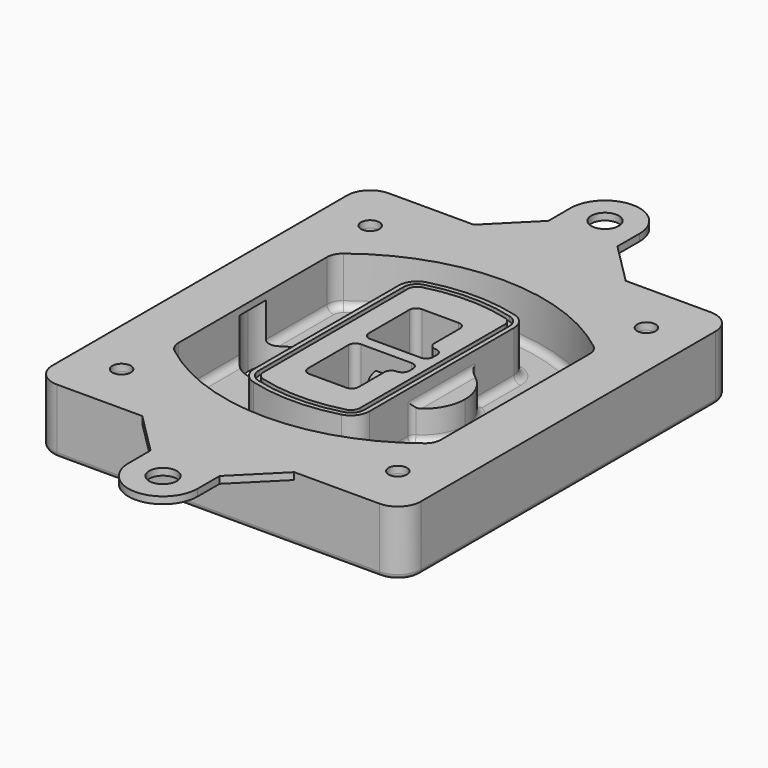
from build123d import *

# Parameters (mm, degrees)
F0_R      = 4
F1_DEPTH  = 25
F2_DEPTH  = 3
F3_DEPTH  = 18
F5_DEPTH  = 21
F6_DEPTH  = 2
F8_DEPTH  = 20
F9_DEPTH  = 16
F10_DEPTH = 25
F7_R      = 6
F7_R_2    = 4
F11_DEPTH = 6
F13_DEPTH = 9
F14_R     = 3
F15_R     = 2
F16_R     = 4
F16_R_2   = 6
F17_DEPTH = 3


with BuildPart() as f1:
    # F0 (on Top) → F1 (new body)
    with BuildSketch(Plane.XY):
        with BuildLine():
            ThreePointArc((14.05, 38.3825811321), (16.9789321881, 31.3115133202), (24.05, 28.3825811321))
            Line((24.05, 28.3825811321), (164.05, 28.3825811321))
            ThreePointArc((164.05, 28.3825811321), (171.1210678119, 31.3115133202), (174.05, 38.3825811321))
            Line((174.05, 38.3825811321), (174.05, 198.3825811321))
            ThreePointArc((174.05, 198.3825811321), (171.1210678119, 205.4536489439), (164.05, 208.3825811321))
            Line((164.05, 208.3825811321), (24.05, 208.3825811321))
            ThreePointArc((24.05, 208.3825811321), (16.9789321881, 205.4536489439), (14.05, 198.3825811321))
            Line((14.05, 198.3825811321), (14.05, 38.3825811321))
        make_face()
        with Locations((34.05, 50.8825811321)):
            Circle(F0_R, mode=Mode.SUBTRACT)
        with Locations((154.05, 50.8825811321)):
            Circle(F0_R, mode=Mode.SUBTRACT)
        with BuildLine():
            ThreePointArc((30.05, 158.6760234193), (31.4679615202, 164.8154295545), (35.4346153846, 169.7112011673))
            ThreePointArc((35.4346153846, 169.7112011673), (94.05, 189.8825811321), (152.6653846154, 169.7112011673))
            ThreePointArc((152.6653846154, 169.7112011673), (156.6320384798, 164.8154295545), (158.05, 158.6760234193))
            Line((158.05, 158.6760234193), (158.05, 78.0891388448))
            ThreePointArc((158.05, 78.0891388448), (156.6320384798, 71.9497327097), (152.6653846154, 67.0539610969))
            ThreePointArc((152.6653846154, 67.0539610969), (94.05, 46.8825811321), (35.4346153846, 67.0539610969))
            ThreePointArc((35.4346153846, 67.0539610969), (31.4679615202, 71.9497327097), (30.05, 78.0891388448))
            Line((30.05, 78.0891388448), (30.05, 158.6760234193))
        make_face(mode=Mode.SUBTRACT)
        with Locations((34.05, 185.8825811321)):
            Circle(F0_R, mode=Mode.SUBTRACT)
        with Locations((154.05, 185.8825811321)):
            Circle(F0_R, mode=Mode.SUBTRACT)
        with BuildLine():
            ThreePointArc((152.6653846154, 169.7112011673), (94.05, 189.8825811321), (35.4346153846, 169.7112011673))
            ThreePointArc((35.4346153846, 169.7112011673), (31.4679615202, 164.8154295545), (30.05, 158.6760234193))
            Line((30.05, 158.6760234193), (30.05, 78.0891388448))
            ThreePointArc((30.05, 78.0891388448), (31.4679615202, 71.9497327097), (35.4346153846, 67.0539610969))
            ThreePointArc((35.4346153846, 67.0539610969), (94.05, 46.8825811321), (152.6653846154, 67.0539610969))
            ThreePointArc((152.6653846154, 67.0539610969), (156.6320384798, 71.9497327097), (158.05, 78.0891388448))
            Line((158.05, 78.0891388448), (158.05, 158.6760234193))
            ThreePointArc((158.05, 158.6760234193), (156.6320384798, 164.8154295545), (152.6653846154, 169.7112011673))
        make_face()
        with BuildLine():
            Line((34.05, 78.0891388448), (34.05, 158.6760234193))
            ThreePointArc((34.05, 158.6760234193), (35.0628296573, 163.0613135158), (37.8961538462, 166.5582932393))
            ThreePointArc((37.8961538462, 166.5582932393), (94.05, 185.8825811321), (150.2038461538, 166.5582932393))
            ThreePointArc((150.2038461538, 166.5582932393), (153.0371703427, 163.0613135158), (154.05, 158.6760234193))
            Line((154.05, 158.6760234193), (154.05, 78.0891388448))
            ThreePointArc((154.05, 78.0891388448), (153.0371703427, 73.7038487483), (150.2038461538, 70.2068690248))
            ThreePointArc((150.2038461538, 70.2068690248), (94.05, 50.8825811321), (37.8961538462, 70.2068690248))
            ThreePointArc((37.8961538462, 70.2068690248), (35.0628296573, 73.7038487483), (34.05, 78.0891388448))
        make_face(mode=Mode.SUBTRACT)
        with BuildLine():
            ThreePointArc((37.8961538462, 166.5582932393), (35.0628296573, 163.0613135158), (34.05, 158.6760234193))
            Line((34.05, 158.6760234193), (34.05, 78.0891388448))
            ThreePointArc((34.05, 78.0891388448), (35.0628296573, 73.7038487483), (37.8961538462, 70.2068690248))
            ThreePointArc((37.8961538462, 70.2068690248), (94.05, 50.8825811321), (150.2038461538, 70.2068690248))
            ThreePointArc((150.2038461538, 70.2068690248), (153.0371703427, 73.7038487483), (154.05, 78.0891388448))
            Line((154.05, 78.0891388448), (154.05, 158.6760234193))
            ThreePointArc((154.05, 158.6760234193), (153.0371703427, 163.0613135158), (150.2038461538, 166.5582932393))
            ThreePointArc((150.2038461538, 166.5582932393), (94.05, 185.8825811321), (37.8961538462, 166.5582932393))
        make_face()
        with BuildLine():
            ThreePointArc((148.3576923077, 164.1936122933), (150.3410192399, 161.7457264869), (151.05, 158.6760234193))
            Line((151.05, 158.6760234193), (151.05, 78.0891388448))
            ThreePointArc((151.05, 78.0891388448), (150.3410192399, 75.0194357772), (148.3576923077, 72.5715499708))
            ThreePointArc((148.3576923077, 72.5715499708), (94.05, 53.8825811321), (39.7423076923, 72.5715499708))
            ThreePointArc((39.7423076923, 72.5715499708), (37.7589807601, 75.0194357772), (37.05, 78.0891388448))
            Line((37.05, 78.0891388448), (37.05, 158.6760234193))
            ThreePointArc((37.05, 158.6760234193), (37.7589807601, 161.7457264869), (39.7423076923, 164.1936122933))
            ThreePointArc((39.7423076923, 164.1936122933), (94.05, 182.8825811321), (148.3576923077, 164.1936122933))
        make_face(mode=Mode.SUBTRACT)
        with BuildLine():
            Line((151.05, 78.0891388448), (151.05, 158.6760234193))
            ThreePointArc((151.05, 158.6760234193), (150.3410192399, 161.7457264869), (148.3576923077, 164.1936122933))
            ThreePointArc((148.3576923077, 164.1936122933), (94.05, 182.8825811321), (39.7423076923, 164.1936122933))
            ThreePointArc((39.7423076923, 164.1936122933), (37.7589807601, 161.7457264869), (37.05, 158.6760234193))
            Line((37.05, 158.6760234193), (37.05, 78.0891388448))
            ThreePointArc((37.05, 78.0891388448), (37.7589807601, 75.0194357772), (39.7423076923, 72.5715499708))
            ThreePointArc((39.7423076923, 72.5715499708), (94.05, 53.8825811321), (148.3576923077, 72.5715499708))
            ThreePointArc((148.3576923077, 72.5715499708), (150.3410192399, 75.0194357772), (151.05, 78.0891388448))
        make_face()
    extrude(amount=-F1_DEPTH)

    # F0 (on Top) → F2 (join)
    with BuildSketch(Plane.XY):
        with BuildLine():
            ThreePointArc((37.8961538462, 166.5582932393), (35.0628296573, 163.0613135158), (34.05, 158.6760234193))
            Line((34.05, 158.6760234193), (34.05, 78.0891388448))
            ThreePointArc((34.05, 78.0891388448), (35.0628296573, 73.7038487483), (37.8961538462, 70.2068690248))
            ThreePointArc((37.8961538462, 70.2068690248), (94.05, 50.8825811321), (150.2038461538, 70.2068690248))
            ThreePointArc((150.2038461538, 70.2068690248), (153.0371703427, 73.7038487483), (154.05, 78.0891388448))
            Line((154.05, 78.0891388448), (154.05, 158.6760234193))
            ThreePointArc((154.05, 158.6760234193), (153.0371703427, 163.0613135158), (150.2038461538, 166.5582932393))
            ThreePointArc((150.2038461538, 166.5582932393), (94.05, 185.8825811321), (37.8961538462, 166.5582932393))
        make_face()
        with BuildLine():
            ThreePointArc((148.3576923077, 164.1936122933), (150.3410192399, 161.7457264869), (151.05, 158.6760234193))
            Line((151.05, 158.6760234193), (151.05, 78.0891388448))
            ThreePointArc((151.05, 78.0891388448), (150.3410192399, 75.0194357772), (148.3576923077, 72.5715499708))
            ThreePointArc((148.3576923077, 72.5715499708), (94.05, 53.8825811321), (39.7423076923, 72.5715499708))
            ThreePointArc((39.7423076923, 72.5715499708), (37.7589807601, 75.0194357772), (37.05, 78.0891388448))
            Line((37.05, 78.0891388448), (37.05, 158.6760234193))
            ThreePointArc((37.05, 158.6760234193), (37.7589807601, 161.7457264869), (39.7423076923, 164.1936122933))
            ThreePointArc((39.7423076923, 164.1936122933), (94.05, 182.8825811321), (148.3576923077, 164.1936122933))
        make_face(mode=Mode.SUBTRACT)
    extrude(amount=F2_DEPTH)

    # F0 (on Top) → F3 (cut)
    with BuildSketch(Plane.XY):
        with BuildLine():
            Line((151.05, 78.0891388448), (151.05, 158.6760234193))
            ThreePointArc((151.05, 158.6760234193), (150.3410192399, 161.7457264869), (148.3576923077, 164.1936122933))
            ThreePointArc((148.3576923077, 164.1936122933), (94.05, 182.8825811321), (39.7423076923, 164.1936122933))
            ThreePointArc((39.7423076923, 164.1936122933), (37.7589807601, 161.7457264869), (37.05, 158.6760234193))
            Line((37.05, 158.6760234193), (37.05, 78.0891388448))
            ThreePointArc((37.05, 78.0891388448), (37.7589807601, 75.0194357772), (39.7423076923, 72.5715499708))
            ThreePointArc((39.7423076923, 72.5715499708), (94.05, 53.8825811321), (148.3576923077, 72.5715499708))
            ThreePointArc((148.3576923077, 72.5715499708), (150.3410192399, 75.0194357772), (151.05, 78.0891388448))
        make_face()
    extrude(amount=-F3_DEPTH, mode=Mode.SUBTRACT)

    # F4 (on face) → F5 (join, through all)
    with BuildSketch(Plane.XY.offset(3)):
        with BuildLine():
            ThreePointArc((69.05, 79.13605345), (70.6988454002, 74.2716074128), (74.9657088123, 71.4123412437))
            ThreePointArc((74.9657088123, 71.4123412437), (94.05, 68.8825811321), (113.1342911877, 71.4123412437))
            ThreePointArc((113.1342911877, 71.4123412437), (117.4011545998, 74.2716074128), (119.05, 79.13605345))
            Line((119.05, 79.13605345), (119.05, 157.6291088141))
            ThreePointArc((119.05, 157.6291088141), (117.4011545998, 162.4935548514), (113.1342911877, 165.3528210204))
            ThreePointArc((113.1342911877, 165.3528210204), (94.05, 167.8825811321), (74.9657088123, 165.3528210204))
            ThreePointArc((74.9657088123, 165.3528210204), (70.6988454002, 162.4935548514), (69.05, 157.6291088141))
            Line((69.05, 157.6291088141), (69.05, 79.13605345))
        make_face()
        with BuildLine():
            ThreePointArc((112.6132183908, 163.4218929688), (115.8133659499, 161.2774433421), (117.05, 157.6291088141))
            Line((117.05, 157.6291088141), (117.05, 79.13605345))
            ThreePointArc((117.05, 79.13605345), (115.8133659499, 75.4877189221), (112.6132183908, 73.3432692953))
            ThreePointArc((112.6132183908, 73.3432692953), (94.05, 70.8825811321), (75.4867816092, 73.3432692953))
            ThreePointArc((75.4867816092, 73.3432692953), (72.2866340501, 75.4877189221), (71.05, 79.13605345))
            Line((71.05, 79.13605345), (71.05, 157.6291088141))
            ThreePointArc((71.05, 157.6291088141), (72.2866340501, 161.2774433421), (75.4867816092, 163.4218929688))
            ThreePointArc((75.4867816092, 163.4218929688), (94.05, 165.8825811321), (112.6132183908, 163.4218929688))
        make_face(mode=Mode.SUBTRACT)
        with BuildLine():
            Line((117.05, 79.13605345), (117.05, 157.6291088141))
            ThreePointArc((117.05, 157.6291088141), (115.8133659499, 161.2774433421), (112.6132183908, 163.4218929688))
            ThreePointArc((112.6132183908, 163.4218929688), (94.05, 165.8825811321), (75.4867816092, 163.4218929688))
            ThreePointArc((75.4867816092, 163.4218929688), (72.2866340501, 161.2774433421), (71.05, 157.6291088141))
            Line((71.05, 157.6291088141), (71.05, 79.13605345))
            ThreePointArc((71.05, 79.13605345), (72.2866340501, 75.4877189221), (75.4867816092, 73.3432692953))
            ThreePointArc((75.4867816092, 73.3432692953), (94.05, 70.8825811321), (112.6132183908, 73.3432692953))
            ThreePointArc((112.6132183908, 73.3432692953), (115.8133659499, 75.4877189221), (117.05, 79.13605345))
        make_face()
        with BuildLine():
            ThreePointArc((112.0921455939, 161.4909649173), (114.2255772999, 160.0613318328), (115.05, 157.6291088141))
            Line((115.05, 157.6291088141), (115.05, 79.13605345))
            ThreePointArc((115.05, 79.13605345), (114.2255772999, 76.7038304314), (112.0921455939, 75.2741973469))
            ThreePointArc((112.0921455939, 75.2741973469), (94.05, 72.8825811321), (76.0078544061, 75.2741973469))
            ThreePointArc((76.0078544061, 75.2741973469), (73.8744227001, 76.7038304314), (73.05, 79.13605345))
            Line((73.05, 79.13605345), (73.05, 157.6291088141))
            ThreePointArc((73.05, 157.6291088141), (73.8744227001, 160.0613318328), (76.0078544061, 161.4909649173))
            ThreePointArc((76.0078544061, 161.4909649173), (94.05, 163.8825811321), (112.0921455939, 161.4909649173))
        make_face(mode=Mode.SUBTRACT)
        with BuildLine():
            Line((115.05, 79.13605345), (115.05, 157.6291088141))
            ThreePointArc((115.05, 157.6291088141), (114.2255772999, 160.0613318328), (112.0921455939, 161.4909649173))
            ThreePointArc((112.0921455939, 161.4909649173), (94.05, 163.8825811321), (76.0078544061, 161.4909649173))
            ThreePointArc((76.0078544061, 161.4909649173), (73.8744227001, 160.0613318328), (73.05, 157.6291088141))
            Line((73.05, 157.6291088141), (73.05, 79.13605345))
            ThreePointArc((73.05, 79.13605345), (73.8744227001, 76.7038304314), (76.0078544061, 75.2741973469))
            ThreePointArc((76.0078544061, 75.2741973469), (94.05, 72.8825811321), (112.0921455939, 75.2741973469))
            ThreePointArc((112.0921455939, 75.2741973469), (114.2255772999, 76.7038304314), (115.05, 79.13605345))
        make_face()
        with BuildLine():
            Line((86.05, 115.8825811321), (108.05, 115.8825811321))
            ThreePointArc((108.05, 115.8825811321), (110.1713203436, 115.0039014756), (111.05, 112.8825811321))
            Line((111.05, 112.8825811321), (111.05, 110.8825811321))
            ThreePointArc((111.05, 110.8825811321), (110.1713203436, 108.7612607885), (108.05, 107.8825811321))
            ThreePointArc((108.05, 107.8825811321), (105.9286796564, 107.0039014756), (105.05, 104.8825811321))
            Line((105.05, 104.8825811321), (105.05, 90.8825811321))
            ThreePointArc((105.05, 90.8825811321), (104.1713203436, 88.7612607885), (102.05, 87.8825811321))
            Line((102.05, 87.8825811321), (86.05, 87.8825811321))
            ThreePointArc((86.05, 87.8825811321), (83.9286796564, 88.7612607885), (83.05, 90.8825811321))
            Line((83.05, 90.8825811321), (83.05, 112.8825811321))
            ThreePointArc((83.05, 112.8825811321), (83.9286796564, 115.0039014756), (86.05, 115.8825811321))
        make_face(mode=Mode.SUBTRACT)
        with BuildLine():
            ThreePointArc((86.05, 120.8825811321), (83.9286796564, 121.7612607885), (83.05, 123.8825811321))
            Line((83.05, 123.8825811321), (83.05, 145.8825811321))
            ThreePointArc((83.05, 145.8825811321), (83.9286796564, 148.0039014756), (86.05, 148.8825811321))
            Line((86.05, 148.8825811321), (102.05, 148.8825811321))
            ThreePointArc((102.05, 148.8825811321), (104.1713203436, 148.0039014756), (105.05, 145.8825811321))
            Line((105.05, 145.8825811321), (105.05, 131.8825811321))
            ThreePointArc((105.05, 131.8825811321), (105.9286796564, 129.7612607885), (108.05, 128.8825811321))
            ThreePointArc((108.05, 128.8825811321), (110.1713203436, 128.0039014756), (111.05, 125.8825811321))
            Line((111.05, 125.8825811321), (111.05, 123.8825811321))
            ThreePointArc((111.05, 123.8825811321), (110.1713203436, 121.7612607885), (108.05, 120.8825811321))
            Line((108.05, 120.8825811321), (86.05, 120.8825811321))
        make_face(mode=Mode.SUBTRACT)
    extrude(amount=-F5_DEPTH)

    # F4 (on face) → F6 (cut)
    with BuildSketch(Plane.XY.offset(3)):
        with BuildLine():
            Line((117.05, 79.13605345), (117.05, 157.6291088141))
            ThreePointArc((117.05, 157.6291088141), (115.8133659499, 161.2774433421), (112.6132183908, 163.4218929688))
            ThreePointArc((112.6132183908, 163.4218929688), (94.05, 165.8825811321), (75.4867816092, 163.4218929688))
            ThreePointArc((75.4867816092, 163.4218929688), (72.2866340501, 161.2774433421), (71.05, 157.6291088141))
            Line((71.05, 157.6291088141), (71.05, 79.13605345))
            ThreePointArc((71.05, 79.13605345), (72.2866340501, 75.4877189221), (75.4867816092, 73.3432692953))
            ThreePointArc((75.4867816092, 73.3432692953), (94.05, 70.8825811321), (112.6132183908, 73.3432692953))
            ThreePointArc((112.6132183908, 73.3432692953), (115.8133659499, 75.4877189221), (117.05, 79.13605345))
        make_face()
        with BuildLine():
            ThreePointArc((112.0921455939, 161.4909649173), (114.2255772999, 160.0613318328), (115.05, 157.6291088141))
            Line((115.05, 157.6291088141), (115.05, 79.13605345))
            ThreePointArc((115.05, 79.13605345), (114.2255772999, 76.7038304314), (112.0921455939, 75.2741973469))
            ThreePointArc((112.0921455939, 75.2741973469), (94.05, 72.8825811321), (76.0078544061, 75.2741973469))
            ThreePointArc((76.0078544061, 75.2741973469), (73.8744227001, 76.7038304314), (73.05, 79.13605345))
            Line((73.05, 79.13605345), (73.05, 157.6291088141))
            ThreePointArc((73.05, 157.6291088141), (73.8744227001, 160.0613318328), (76.0078544061, 161.4909649173))
            ThreePointArc((76.0078544061, 161.4909649173), (94.05, 163.8825811321), (112.0921455939, 161.4909649173))
        make_face(mode=Mode.SUBTRACT)
    extrude(amount=-F6_DEPTH, mode=Mode.SUBTRACT)

    # F7 (on face) → F8 (join)
    with BuildSketch(Plane(origin=(0, 0, -25), x_dir=(1, 0, 0), z_dir=(0, 0, -1))):
        with BuildLine():
            ThreePointArc((97.33842436, -118.3825811321), (110.8067035675, -104.9143019245), (124.274982775, -118.3825811321))
            Line((124.274982775, -118.3825811321), (129.274982775, -118.3825811321))
            ThreePointArc((129.274982775, -118.3825811321), (110.8067035675, -99.9143019245), (92.33842436, -118.3825811321))
            Line((92.33842436, -118.3825811321), (97.33842436, -118.3825811321))
        make_face()
        with BuildLine():
            Line((97.33842436, -118.3825811321), (124.274982775, -118.3825811321))
            ThreePointArc((124.274982775, -118.3825811321), (110.8067035675, -104.9143019245), (97.33842436, -118.3825811321))
        make_face()
        with BuildLine():
            ThreePointArc((97.33842436, -118.3825811321), (110.8067035675, -131.8508603396), (124.274982775, -118.3825811321))
            Line((124.274982775, -118.3825811321), (97.33842436, -118.3825811321))
        make_face()
        with BuildLine():
            Line((129.274982775, -118.3825811321), (124.274982775, -118.3825811321))
            ThreePointArc((124.274982775, -118.3825811321), (110.8067035675, -131.8508603396), (97.33842436, -118.3825811321))
            Line((97.33842436, -118.3825811321), (92.33842436, -118.3825811321))
            ThreePointArc((92.33842436, -118.3825811321), (110.8067035675, -136.8508603396), (129.274982775, -118.3825811321))
        make_face()
    extrude(amount=-F8_DEPTH)

    # F7 (on face) → F9 (cut)
    with BuildSketch(Plane(origin=(0, 0, -25), x_dir=(1, 0, 0), z_dir=(0, 0, -1))):
        with BuildLine():
            Line((97.33842436, -118.3825811321), (124.274982775, -118.3825811321))
            ThreePointArc((124.274982775, -118.3825811321), (110.8067035675, -104.9143019245), (97.33842436, -118.3825811321))
        make_face()
        with BuildLine():
            ThreePointArc((97.33842436, -118.3825811321), (110.8067035675, -131.8508603396), (124.274982775, -118.3825811321))
            Line((124.274982775, -118.3825811321), (97.33842436, -118.3825811321))
        make_face()
    extrude(amount=-F9_DEPTH, mode=Mode.SUBTRACT)

    # F7 (on face) → F10 (cut)
    with BuildSketch(Plane(origin=(0, 0, -25), x_dir=(1, 0, 0), z_dir=(0, 0, -1))):
        with BuildLine():
            Line((35.0181770675, -118.3825811321), (61.9547354825, -118.3825811321))
            ThreePointArc((61.9547354825, -118.3825811321), (48.486456275, -104.9143019245), (35.0181770675, -118.3825811321))
        make_face()
        with BuildLine():
            ThreePointArc((35.0181770675, -118.3825811321), (48.486456275, -131.8508603396), (61.9547354825, -118.3825811321))
            Line((61.9547354825, -118.3825811321), (35.0181770675, -118.3825811321))
        make_face()
    extrude(amount=-F10_DEPTH, mode=Mode.SUBTRACT)

    # F7 (on face) → F11 (cut)
    with BuildSketch(Plane(origin=(0, 0, -25), x_dir=(1, 0, 0), z_dir=(0, 0, -1))):
        with Locations((154.05, -185.8825811321)):
            Circle(F7_R)
        with Locations((154.05, -185.8825811321)):
            Circle(F7_R_2, mode=Mode.SUBTRACT)
        with Locations((154.05, -185.8825811321)):
            Circle(F7_R)
        with Locations((154.05, -185.8825811321)):
            Circle(F7_R_2, mode=Mode.SUBTRACT)
        with Locations((34.05, -185.8825811321)):
            Circle(F7_R)
        with Locations((34.05, -185.8825811321)):
            Circle(F7_R_2, mode=Mode.SUBTRACT)
        with Locations((34.05, -185.8825811321)):
            Circle(F7_R)
        with Locations((34.05, -185.8825811321)):
            Circle(F7_R_2, mode=Mode.SUBTRACT)
        with Locations((34.05, -50.8825811321)):
            Circle(F7_R)
        with Locations((34.05, -50.8825811321)):
            Circle(F7_R_2, mode=Mode.SUBTRACT)
        with Locations((34.05, -50.8825811321)):
            Circle(F7_R)
        with Locations((34.05, -50.8825811321)):
            Circle(F7_R_2, mode=Mode.SUBTRACT)
        with Locations((154.05, -50.8825811321)):
            Circle(F7_R)
        with Locations((154.05, -50.8825811321)):
            Circle(F7_R_2, mode=Mode.SUBTRACT)
        with Locations((154.05, -50.8825811321)):
            Circle(F7_R)
        with Locations((154.05, -50.8825811321)):
            Circle(F7_R_2, mode=Mode.SUBTRACT)
    extrude(amount=-F11_DEPTH, mode=Mode.SUBTRACT)

    # F12 (on face) → F13 (cut, through all)
    with BuildSketch(Plane(origin=(0, 0, -9), x_dir=(1, 0, 0), z_dir=(0, 0, -1))):
        with BuildLine():
            Line((105.05, -104.8825811321), (105.05, -100.8344273567))
            ThreePointArc((105.05, -100.8344273567), (96.6196536419, -106.5586667507), (92.5084157545, -115.8825811321))
            Line((92.5084157545, -115.8825811321), (97.5724848595, -115.8825811321))
            ThreePointArc((97.5724848595, -115.8825811321), (100.2357188154, -110.0369939039), (105.3036447004, -106.0898642673))
            ThreePointArc((105.3036447004, -106.0898642673), (105.1140958889, -105.4994012441), (105.05, -104.8825811321))
        make_face()
        with BuildLine():
            ThreePointArc((105.3036447004, -130.6752979968), (100.2357188154, -126.7281683602), (97.5724848595, -120.8825811321))
            Line((97.5724848595, -120.8825811321), (92.5084157545, -120.8825811321))
            ThreePointArc((92.5084157545, -120.8825811321), (96.6196536419, -130.2064955134), (105.05, -135.9307349074))
            Line((105.05, -135.9307349074), (105.05, -131.8825811321))
            ThreePointArc((105.05, -131.8825811321), (105.1140958889, -131.26576102), (105.3036447004, -130.6752979968))
        make_face()
        with BuildLine():
            ThreePointArc((105.3036447004, -106.0898642673), (100.2357188154, -110.0369939039), (97.5724848595, -115.8825811321))
            Line((97.5724848595, -115.8825811321), (108.05, -115.8825811321))
            ThreePointArc((108.05, -115.8825811321), (110.1713203436, -115.0039014756), (111.05, -112.8825811321))
            Line((111.05, -112.8825811321), (111.05, -110.8825811321))
            ThreePointArc((111.05, -110.8825811321), (110.1713203436, -108.7612607885), (108.05, -107.8825811321))
            ThreePointArc((108.05, -107.8825811321), (106.4101599782, -107.3947365219), (105.3036447004, -106.0898642673))
        make_face()
        with BuildLine():
            Line((108.05, -120.8825811321), (97.5724848595, -120.8825811321))
            ThreePointArc((97.5724848595, -120.8825811321), (100.2357188154, -126.7281683602), (105.3036447004, -130.6752979968))
            ThreePointArc((105.3036447004, -130.6752979968), (106.4101599782, -129.3704257422), (108.05, -128.8825811321))
            ThreePointArc((108.05, -128.8825811321), (110.1713203436, -128.0039014756), (111.05, -125.8825811321))
            Line((111.05, -125.8825811321), (111.05, -123.8825811321))
            ThreePointArc((111.05, -123.8825811321), (110.1713203436, -121.7612607885), (108.05, -120.8825811321))
        make_face()
    extrude(amount=F13_DEPTH, mode=Mode.SUBTRACT)

    # F14
    f14_edges = [f1.edges().sort_by_distance(p)[0] for p in [
        (37.05, 94.679105, -18),
        (37.05, 142.086057, -18),
        (119.05, 118.382581, -5),
        (119.05, 134.909087, -11.5),
        (119.05, 101.856075, -11.5),
        (119.05, 90.496064, -18),
        (129.274983, 118.382581, -18),
    ]]
    fillet(f14_edges, radius=F14_R)

    # F15
    f15_edges = [f1.edges().sort_by_distance(p)[0] for p in [
        (94.05, 28.382581, -25),
    ]]
    fillet(f15_edges, radius=F15_R)

    # F16 (on face) → F17 (join, through all)
    with BuildSketch(Plane.XY):
        with BuildLine():
            Line((127.05, 208.3825811321), (61.05, 208.3825811321))
            Line((61.05, 208.3825811321), (24.05, 208.3825811321))
            ThreePointArc((24.05, 208.3825811321), (16.9789321881, 205.4536489439), (14.05, 198.3825811321))
            Line((14.05, 198.3825811321), (14.05, 38.3825811321))
            ThreePointArc((14.05, 38.3825811321), (16.9789321881, 31.3115133202), (24.05, 28.3825811321))
            Line((24.05, 28.3825811321), (61.05, 28.3825811321))
            Line((61.05, 28.3825811321), (127.05, 28.3825811321))
            Line((127.05, 28.3825811321), (164.05, 28.3825811321))
            ThreePointArc((164.05, 28.3825811321), (171.1210678119, 31.3115133202), (174.05, 38.3825811321))
            Line((174.05, 38.3825811321), (174.05, 198.3825811321))
            ThreePointArc((174.05, 198.3825811321), (171.1210678119, 205.4536489439), (164.05, 208.3825811321))
            Line((164.05, 208.3825811321), (127.05, 208.3825811321))
        make_face()
        with Locations((34.05, 50.8825811321)):
            Circle(F16_R, mode=Mode.SUBTRACT)
        with BuildLine():
            ThreePointArc((34.05, 158.6760234193), (35.0628296573, 163.0613135158), (37.8961538462, 166.5582932393))
            ThreePointArc((37.8961538462, 166.5582932393), (94.05, 185.8825811321), (150.2038461538, 166.5582932393))
            ThreePointArc((150.2038461538, 166.5582932393), (153.0371703427, 163.0613135158), (154.05, 158.6760234193))
            Line((154.05, 158.6760234193), (154.05, 78.0891388448))
            ThreePointArc((154.05, 78.0891388448), (153.0371703427, 73.7038487483), (150.2038461538, 70.2068690248))
            ThreePointArc((150.2038461538, 70.2068690248), (94.05, 50.8825811321), (37.8961538462, 70.2068690248))
            ThreePointArc((37.8961538462, 70.2068690248), (35.0628296573, 73.7038487483), (34.05, 78.0891388448))
            Line((34.05, 78.0891388448), (34.05, 158.6760234193))
        make_face(mode=Mode.SUBTRACT)
        with Locations((154.05, 50.8825811321)):
            Circle(F16_R, mode=Mode.SUBTRACT)
        with Locations((34.05, 185.8825811321)):
            Circle(F16_R, mode=Mode.SUBTRACT)
        with Locations((154.05, 185.8825811321)):
            Circle(F16_R, mode=Mode.SUBTRACT)
        with BuildLine():
            Line((127.05, 28.3825811321), (61.05, 28.3825811321))
            Line((61.05, 28.3825811321), (79.05, 10.3825811321))
            Line((79.05, 10.3825811321), (79.05, -1.6174188679))
            ThreePointArc((79.05, -1.6174188679), (94.05, -16.6174188679), (109.05, -1.6174188679))
            Line((109.05, -1.6174188679), (109.05, 10.3825811321))
            Line((109.05, 10.3825811321), (127.05, 28.3825811321))
        make_face()
        with Locations((94.05, -1.6174188679)):
            Circle(F16_R_2, mode=Mode.SUBTRACT)
        with BuildLine():
            Line((79.05, 226.3825811321), (61.05, 208.3825811321))
            Line((61.05, 208.3825811321), (127.05, 208.3825811321))
            Line((127.05, 208.3825811321), (109.05, 226.3825811321))
            Line((109.05, 226.3825811321), (109.05, 238.3825811321))
            ThreePointArc((109.05, 238.3825811321), (94.05, 253.3825811321), (79.05, 238.3825811321))
            Line((79.05, 238.3825811321), (79.05, 226.3825811321))
        make_face()
        with Locations((94.05, 238.3825811321)):
            Circle(F16_R_2, mode=Mode.SUBTRACT)
    extrude(amount=F17_DEPTH)


solid = f1.part
